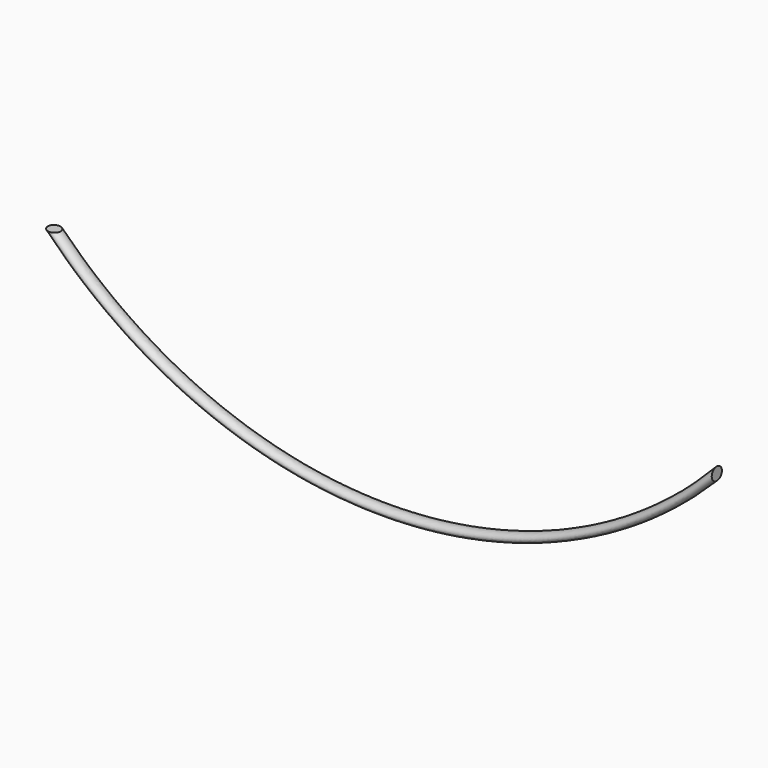
from build123d import *

# Parameters (mm, degrees)
F1_R = 3.75


with BuildPart() as f2:
    # F2: sweep along a path in F0
    with BuildLine(Plane.XZ) as f2_path:
        ThreePointArc((-390, 0), (-195, -82.2330415249), (0, 0))
    # F1 (on Right) → F2 (sweep)
    with BuildSketch(Plane.YZ):
        Circle(F1_R)
    sweep(path=f2_path.line)


solid = f2.part
